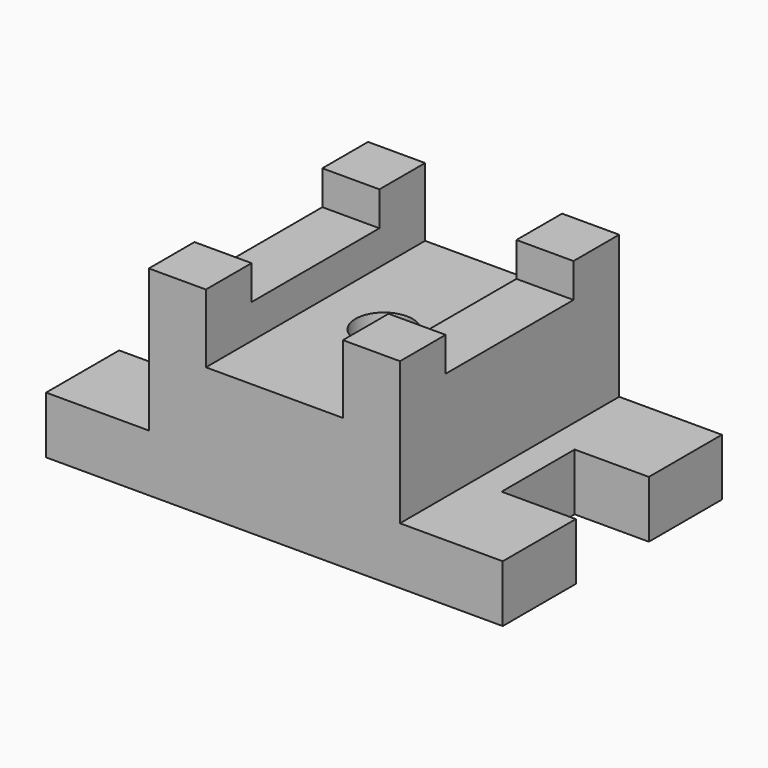
from build123d import *

# Parameters (mm, degrees)
F0_W     = 31.75
F0_H     = 31.75
F1_DEPTH = 31.75
F2_W     = 31.75
F2_H     = 31.75
F3_DEPTH = 79.375
F4_DEPTH = 60.325
F5_DEPTH = 41.275


with BuildPart() as f1:
    # F0 (on Top) → F1 (new body)
    with BuildSketch(Plane.XY):
        Polygon((-69.85, 44.45), (-69.85, 76.2), (-127, 76.2), (-127, 25.4), (-85.725, 25.4), (-85.725, -25.4), (-127, -25.4), (-127, -76.2), (-69.85, -76.2), (-69.85, -44.45), (-69.85, -25.4), (-69.85, 25.4), align=None)
        Polygon((127, 25.4), (127, 76.2), (69.85, 76.2), (69.85, 44.45), (69.85, 25.4), (69.85, -25.4), (69.85, -44.45), (69.85, -76.2), (127, -76.2), (127, -25.4), (85.725, -25.4), (85.725, 25.4), align=None)
        Polygon((-38.1, -44.45), (-38.1, 44.45), (-69.85, 44.45), (-69.85, 25.4), (-69.85, -25.4), (-69.85, -44.45), align=None)
        with Locations((-53.975, 60.325)):
            Rectangle(F0_W, F0_H)
        with Locations((-53.975, -60.325)):
            Rectangle(F0_W, F0_H)
        with BuildLine():
            Line((0, 15.875), (0, 76.2))
            Line((0, 76.2), (-38.1, 76.2))
            Line((-38.1, 76.2), (-38.1, 44.45))
            Line((-38.1, 44.45), (-38.1, -44.45))
            Line((-38.1, -44.45), (-38.1, -76.2))
            Line((-38.1, -76.2), (0, -76.2))
            Line((0, -76.2), (0, -15.875))
            ThreePointArc((0, -15.875), (-15.875, 0), (0, 15.875))
        make_face()
        with BuildLine():
            Line((38.1, 44.45), (38.1, 76.2))
            Line((38.1, 76.2), (0, 76.2))
            Line((0, 76.2), (0, 15.875))
            ThreePointArc((0, 15.875), (11.2253201513, 11.2253201513), (15.875, 0))
            ThreePointArc((15.875, 0), (11.2253201513, -11.2253201513), (0, -15.875))
            Line((0, -15.875), (0, -76.2))
            Line((0, -76.2), (38.1, -76.2))
            Line((38.1, -76.2), (38.1, -44.45))
            Line((38.1, -44.45), (38.1, 44.45))
        make_face()
        with Locations((53.975, -60.325)):
            Rectangle(F0_W, F0_H)
        Polygon((69.85, 25.4), (69.85, 44.45), (38.1, 44.45), (38.1, -44.45), (69.85, -44.45), (69.85, -25.4), align=None)
        with Locations((53.975, 60.325)):
            Rectangle(F0_W, F0_H)
    extrude(amount=F1_DEPTH)

    # F2 (on face) → F3 (join)
    with BuildSketch(Plane.XY.offset(31.75)):
        with Locations((-53.975, -60.325)):
            Rectangle(F2_W, F2_H)
        with Locations((53.975, -60.325)):
            Rectangle(F2_W, F2_H)
        with Locations((53.975, 60.325)):
            Rectangle(F2_W, F2_H)
        with Locations((-53.975, 60.325)):
            Rectangle(F2_W, F2_H)
    extrude(amount=F3_DEPTH)

    # F2 (on face) → F4 (join)
    with BuildSketch(Plane.XY.offset(31.75)):
        Polygon((-38.1, -44.45), (-38.1, 44.45), (-69.85, 44.45), (-69.85, 25.4), (-69.85, -25.4), (-69.85, -44.45), align=None)
        Polygon((69.85, 25.4), (69.85, 44.45), (38.1, 44.45), (38.1, -44.45), (69.85, -44.45), (69.85, -25.4), align=None)
    extrude(amount=F4_DEPTH)

    # F5 (add): a face of the model
    f5_faces = [f1.faces().sort_by_distance(p)[0] for p in [
        (-36.3961162011, 0, 31.75),
    ]]
    extrude(f5_faces, amount=F5_DEPTH)


solid = f1.part
